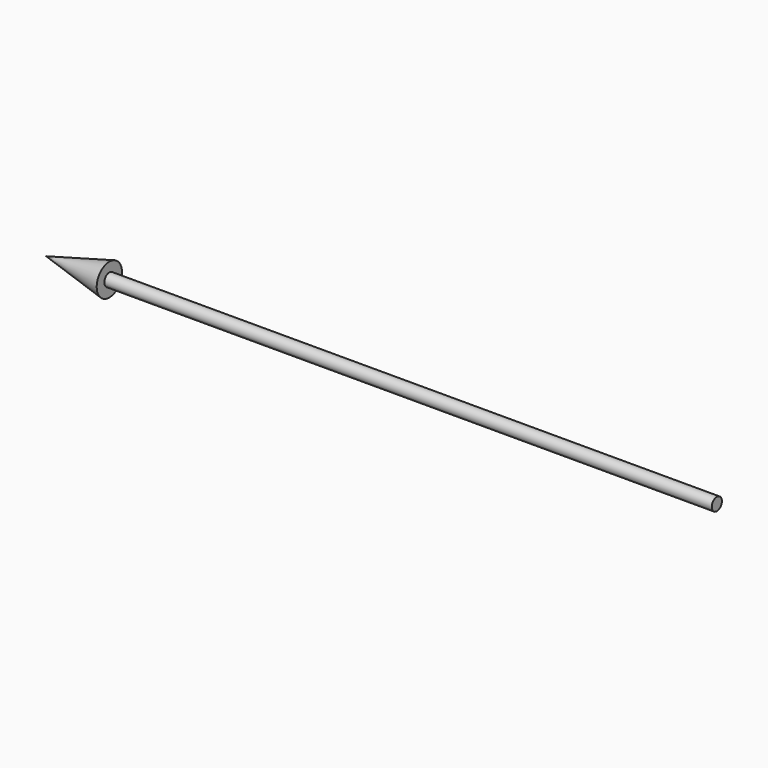
from build123d import *

# Parameters (mm, degrees)
F0_R     = 25.4
F1_DEPTH = 2438.4
F2_R     = 63.5


with BuildPart() as f1:
    # F0 (on Right) → F1 (new body)
    with BuildSketch(Plane.YZ):
        Circle(F0_R)
    extrude(amount=F1_DEPTH)

    # F2 (on Right) → F5 section 0
    with BuildSketch(Plane.YZ, mode=Mode.PRIVATE) as f5_s0:
        Circle(F2_R)
    loft([f5_s0.sketch, Vertex(-254, 0, 0)])


solid = f1.part
